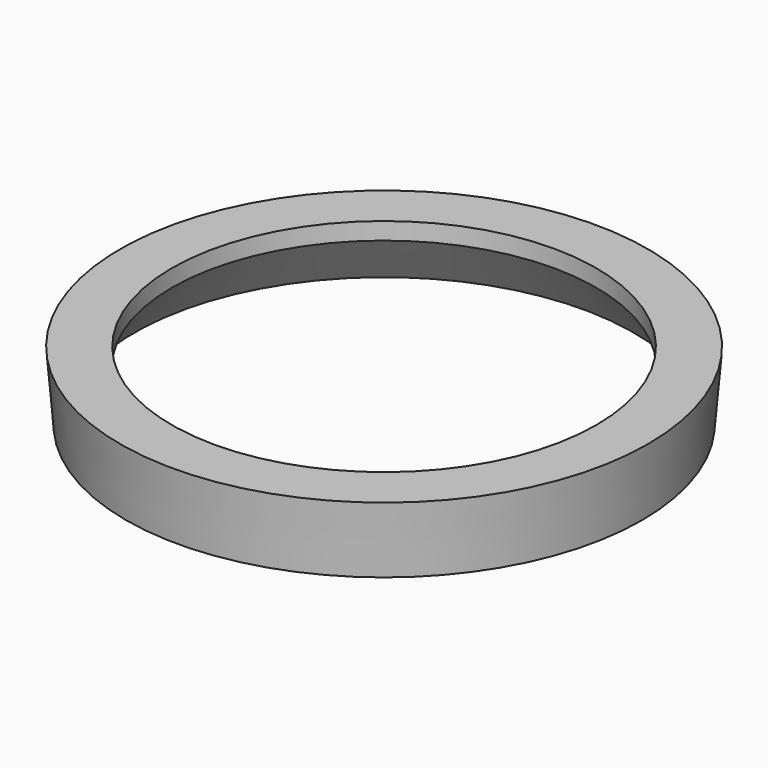
from build123d import *


with BuildPart() as f1:
    # F0 (on Front) → F1 (revolve)
    with BuildSketch(Plane.XZ):
        with BuildLine():
            Line((41.365791, 0), (39.1668, 0))
            Line((39.1668, 0), (39.1668, -3.175))
            Line((39.1668, -3.175), (46.0375, -12.7))
            Line((46.0375, -12.7), (47.625, -12.7))
            Line((47.625, -12.7), (48.6918, 0))
            Line((48.6918, 0), (44.359209, 0))
            ThreePointArc((44.359209, 0), (42.8625, -1.058333), (41.365791, 0))
        make_face()
        with BuildLine():
            Line((44.359209, 0), (41.365791, 0))
            ThreePointArc((41.365791, 0), (42.8625, -1.058333), (44.359209, 0))
        make_face()
    revolve(axis=Axis((0, 0, -2.539125), (0, 0, -1)))


solid = f1.part
